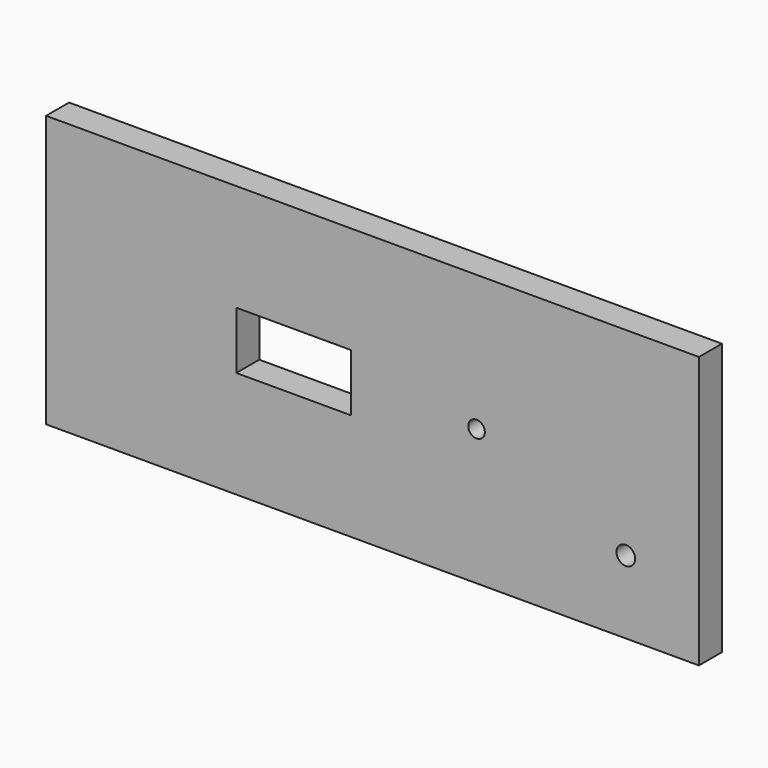
from build123d import *

# Parameters (mm, degrees)
F0_W     = 125
F0_H     = 52
F0_R     = 1.785938
F0_R_2   = 1.5875
F1_DEPTH = 5.5


with BuildPart() as f1:
    # F0 (on Front) → F1 (new body)
    with BuildSketch(Plane.XZ):
        with Locations((62.5, 26)):
            Rectangle(F0_W, F0_H)
        with Locations((111, 14)):
            Circle(F0_R, mode=Mode.SUBTRACT)
        Polygon((58.416788, 31.5), (58.416788, 26), (58.416788, 20.5), (36.416788, 20.5), (36.416788, 31.5), align=None, mode=Mode.SUBTRACT)
        with Locations((82.416788, 26)):
            Circle(F0_R_2, mode=Mode.SUBTRACT)
    extrude(amount=F1_DEPTH)


solid = f1.part
